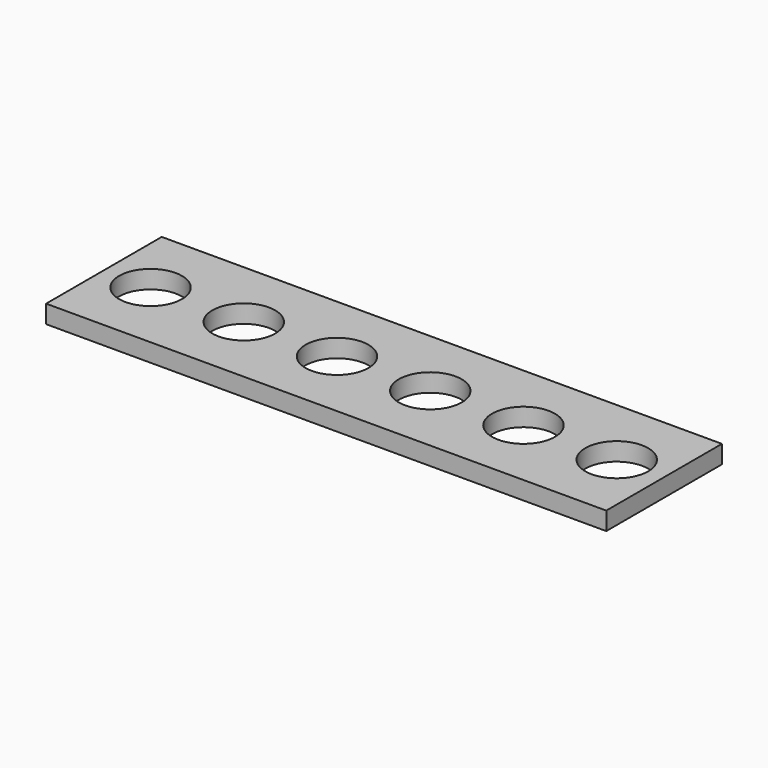
from build123d import *

# Parameters (mm, degrees)
F0_W     = 196.85
F0_H     = 50.8
F0_R     = 11.049
F1_DEPTH = 6.35


with BuildPart() as f1:
    # F0 (on Top) → F1 (new body)
    with BuildSketch(Plane.XY):
        with Locations((98.425, 25.4)):
            Rectangle(F0_W, F0_H)
        with Locations((16.383, 25.4)):
            Circle(F0_R, mode=Mode.SUBTRACT)
        with Locations((49.149, 25.4)):
            Circle(F0_R, mode=Mode.SUBTRACT)
        with Locations((81.915, 25.4)):
            Circle(F0_R, mode=Mode.SUBTRACT)
        with Locations((114.681, 25.4)):
            Circle(F0_R, mode=Mode.SUBTRACT)
        with Locations((147.447, 25.4)):
            Circle(F0_R, mode=Mode.SUBTRACT)
        with Locations((180.213, 25.4)):
            Circle(F0_R, mode=Mode.SUBTRACT)
    extrude(amount=F1_DEPTH)


solid = f1.part
